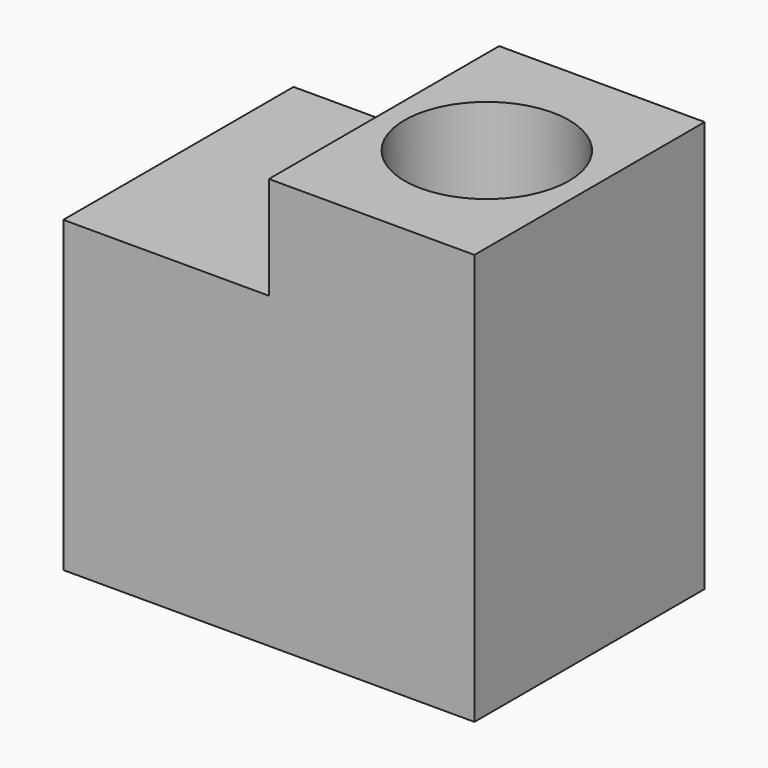
from build123d import *

# Parameters (mm, degrees)
SKETCH_W        = 20
SKETCH_H        = 14
PAD_DEPTH       = 20
SKETCH001_W     = 10
SKETCH001_H     = 14
POCKET_DEPTH    = 5
SKETCH002_R     = 1.6
POCKET001_DEPTH = 20
SKETCH003_R     = 4
POCKET002_DEPTH = 10


with BuildPart() as part:
    # Sketch → Pad (new body)
    with BuildSketch(Plane.XY):
        with Locations((10, 7)):
            Rectangle(SKETCH_W, SKETCH_H)
    extrude(amount=PAD_DEPTH)

    # Sketch001 (on Face6 of Pad) → Pocket (cut)
    with BuildSketch(Plane.XY.offset(20)):
        with Locations((5, 7)):
            Rectangle(SKETCH001_W, SKETCH001_H)
    extrude(amount=-POCKET_DEPTH, mode=Mode.SUBTRACT)

    # Sketch002 (on Face4 of Pocket) → Pocket001 (cut)
    with BuildSketch(Plane.XY.offset(20)):
        with Locations((15, 7)):
            Circle(SKETCH002_R)
    extrude(amount=-POCKET001_DEPTH, mode=Mode.SUBTRACT)

    # Sketch003 (on Face4 of Pocket001) → Pocket002 (cut)
    with BuildSketch(Plane.XY.offset(20)):
        with Locations((15, 7)):
            Circle(SKETCH003_R)
    extrude(amount=-POCKET002_DEPTH, mode=Mode.SUBTRACT)


solid = part.part
